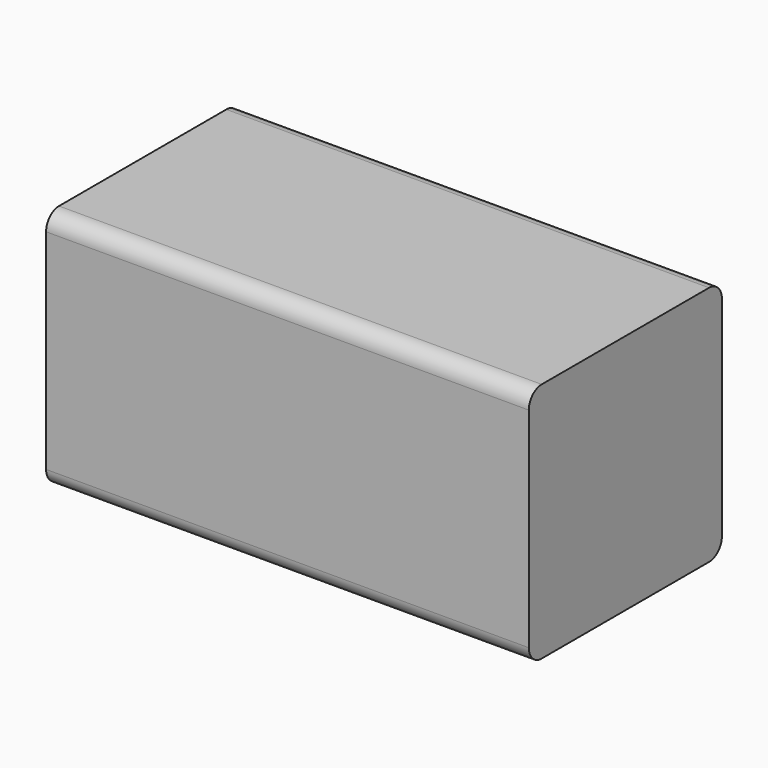
from build123d import *

# Parameters (mm, degrees)
BOX_W       = 152.4
BOX_H       = 76.2
BOX_DEPTH   = 76.2
FILLET_R    = 5.08
FILLET001_R = 5.08
FILLET002_R = 5.08
FILLET003_R = 5.08


with BuildPart() as part:
    # Box → Box (join)
    with BuildSketch(Plane.XY):
        with Locations((76.2, 38.1)):
            Rectangle(BOX_W, BOX_H)
    extrude(amount=BOX_DEPTH)

    # Fillet
    fillet_edges = [part.edges().sort_by_distance(p)[0] for p in [
        (76.2, 0, 76.2),
    ]]
    fillet(fillet_edges, radius=FILLET_R)

    # Fillet001
    fillet001_edges = [part.edges().sort_by_distance(p)[0] for p in [
        (76.2, 76.2, 76.2),
    ]]
    fillet(fillet001_edges, radius=FILLET001_R)

    # Fillet002
    fillet002_edges = [part.edges().sort_by_distance(p)[0] for p in [
        (76.2, 76.2, 0),
    ]]
    fillet(fillet002_edges, radius=FILLET002_R)

    # Fillet003
    fillet003_edges = [part.edges().sort_by_distance(p)[0] for p in [
        (76.2, 0, 0),
    ]]
    fillet(fillet003_edges, radius=FILLET003_R)


solid = part.part
